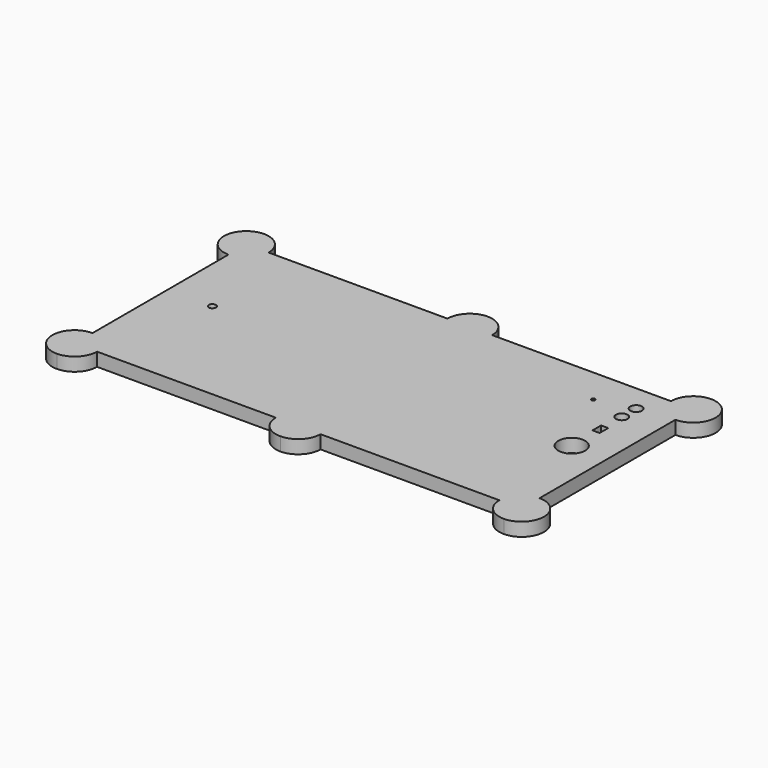
from build123d import *

# Parameters (mm, degrees)
F1_DEPTH = 15
F2_R     = 15
F2_W     = 12
F2_H     = 8
F2_R_2   = 6.5
F2_R_3   = 4
F2_R_4   = 2
F3_DEPTH = 40
F4_ANGLE = 90


with BuildPart() as f1:
    # F0 (on Top) → F1 (new body)
    with BuildSketch(Plane.XY):
        with BuildLine():
            Line((-120, 225), (-120, 250))
            Line((-120, 250), (-95, 250))
            ThreePointArc((-95, 250), (-137.6776695297, 267.6776695297), (-120, 225))
        make_face()
        with BuildLine():
            Line((-95, 250), (-120, 250))
            Line((-120, 250), (-120, 225))
            ThreePointArc((-120, 225), (-102.3223304703, 232.3223304703), (-95, 250))
        make_face()
        with BuildLine():
            Line((95, 250), (-95, 250))
            ThreePointArc((-95, 250), (-102.3223304703, 232.3223304703), (-120, 225))
            Line((-120, 225), (-120, 25))
            ThreePointArc((-120, 25), (-102.3223304703, 17.6776695297), (-95, 0))
            ThreePointArc((-95, 0), (-102.3223304703, -17.6776695297), (-120, -25))
            Line((-120, -25), (-120, -225))
            ThreePointArc((-120, -225), (-102.3223304703, -232.3223304703), (-95, -250))
            Line((-95, -250), (95, -250))
            ThreePointArc((95, -250), (102.3223304703, -232.3223304703), (120, -225))
            Line((120, -225), (120, -25))
            ThreePointArc((120, -25), (95, 0), (120, 25))
            Line((120, 25), (120, 225))
            ThreePointArc((120, 225), (102.3223304703, 232.3223304703), (95, 250))
        make_face()
        with BuildLine():
            ThreePointArc((145, 250), (120, 275), (95, 250))
            Line((95, 250), (120, 250))
            Line((120, 250), (120, 225))
            ThreePointArc((120, 225), (137.6776695297, 232.3223304703), (145, 250))
        make_face()
        with BuildLine():
            Line((120, 250), (95, 250))
            ThreePointArc((95, 250), (102.3223304703, 232.3223304703), (120, 225))
            Line((120, 225), (120, 250))
        make_face()
        with BuildLine():
            ThreePointArc((-95, 0), (-102.3223304703, 17.6776695297), (-120, 25))
            Line((-120, 25), (-120, -25))
            ThreePointArc((-120, -25), (-102.3223304703, -17.6776695297), (-95, 0))
        make_face()
        with BuildLine():
            Line((-120, -25), (-120, 25))
            ThreePointArc((-120, 25), (-145, 0), (-120, -25))
        make_face()
        with BuildLine():
            ThreePointArc((145, 0), (137.6776695297, 17.6776695297), (120, 25))
            Line((120, 25), (120, -25))
            ThreePointArc((120, -25), (137.6776695297, -17.6776695297), (145, 0))
        make_face()
        with BuildLine():
            Line((120, -25), (120, 25))
            ThreePointArc((120, 25), (95, 0), (120, -25))
        make_face()
        with BuildLine():
            ThreePointArc((-95, -250), (-102.3223304703, -232.3223304703), (-120, -225))
            Line((-120, -225), (-120, -250))
            Line((-120, -250), (-95, -250))
        make_face()
        with BuildLine():
            Line((-120, -250), (-120, -225))
            ThreePointArc((-120, -225), (-137.6776695297, -267.6776695297), (-95, -250))
            Line((-95, -250), (-120, -250))
        make_face()
        with BuildLine():
            ThreePointArc((145, -250), (137.6776695297, -232.3223304703), (120, -225))
            Line((120, -225), (120, -250))
            Line((120, -250), (95, -250))
            ThreePointArc((95, -250), (120, -275), (145, -250))
        make_face()
        with BuildLine():
            Line((120, -250), (120, -225))
            ThreePointArc((120, -225), (102.3223304703, -232.3223304703), (95, -250))
            Line((95, -250), (120, -250))
        make_face()
    extrude(amount=F1_DEPTH)

    # F2 (on face) → F3 (cut)
    with BuildSketch(Plane(origin=(0, 0, 0), x_dir=(1, 0, 0), z_dir=(0, 0, -1))):
        with Locations((0, -210)):
            Circle(F2_R)
        with Locations((-40, -210)):
            Rectangle(F2_W, F2_H)
        with Locations((-70, -210)):
            Circle(F2_R_2)
        with Locations((-90, -210)):
            Circle(F2_R_2)
        with Locations((-10, 200)):
            Circle(F2_R_3)
        with Locations((-80, -170)):
            Circle(F2_R_4)
    extrude(amount=-F3_DEPTH, mode=Mode.SUBTRACT)


with BuildPart() as f1_1:
    # F4: moved
    add(f1.part.rotate(Axis((-120, -225, 7.5), (0, 0, -1)), F4_ANGLE))


solid = f1_1.part
